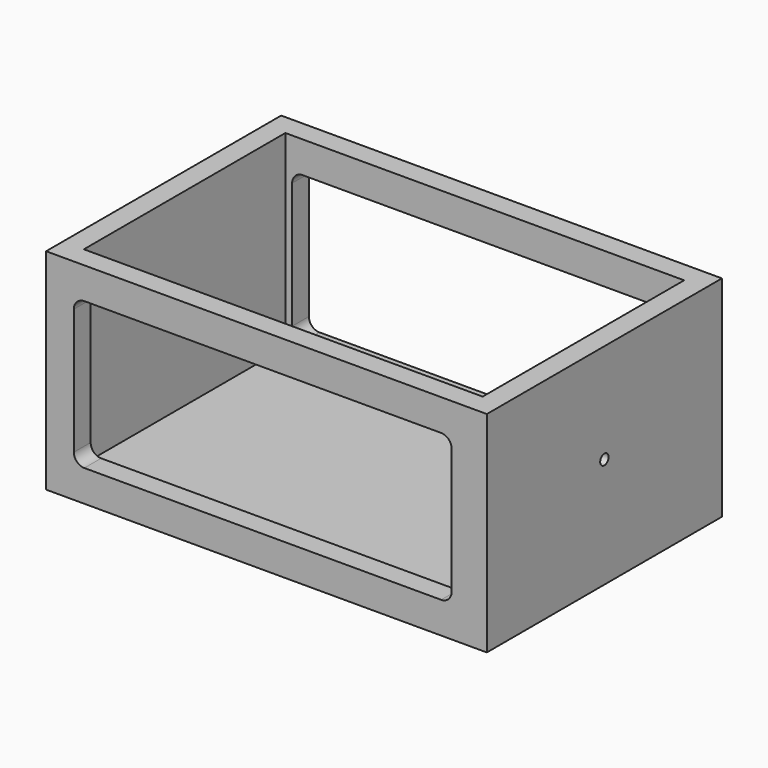
from build123d import *

# Parameters (mm, degrees)
F1_DEPTH = 10
F0_W     = 210
F0_H     = 140
F2_DEPTH = 100
F3_W     = 180
F3_H     = 70
F4_DEPTH = 202.553704
F5_R     = 2.5
F6_DEPTH = 10
F7_R     = 5


with BuildPart() as f1:
    # F0 (on Top) → F1 (new body)
    with BuildSketch(Plane.XY):
        Polygon((82.656699, -60), (95, -60), (95, 60), (82.656699, 60), (72.656699, 60), (-95, 60), (-95, -60), (72.656699, -60), align=None)
        Polygon((82.656699, -60), (95, -60), (95, 60), (82.656699, 60), (72.656699, 60), (-95, 60), (-95, -60), (72.656699, -60), align=None)
        Polygon((82.656699, -60), (95, -60), (95, 60), (82.656699, 60), (72.656699, 60), (-95, 60), (-95, -60), (72.656699, -60), align=None)
    extrude(amount=F1_DEPTH)

    # F0 (on Top) → F2 (join)
    with BuildSketch(Plane.XY):
        Rectangle(F0_W, F0_H)
        Polygon((95, 60), (95, -60), (82.656699, -60), (72.656699, -60), (-95, -60), (-95, 60), (72.656699, 60), (82.656699, 60), align=None, mode=Mode.SUBTRACT)
    extrude(amount=F2_DEPTH)

    # F3 (on face) → F4 (cut)
    with BuildSketch(Plane.XZ.offset(70)):
        with Locations((-1.771243, 50)):
            Rectangle(F3_W, F3_H)
    extrude(amount=-F4_DEPTH, mode=Mode.SUBTRACT)

    # F5 (on face) → F6 (cut)
    with BuildSketch(Plane.YZ.offset(105)):
        with Locations((0, 52.499999)):
            Circle(F5_R)
    extrude(amount=-F6_DEPTH, mode=Mode.SUBTRACT)

    # F7
    f7_edges = [f1.edges().sort_by_distance(p)[0] for p in [
        (-91.771243, -65, 15),
        (-91.771243, 65, 15),
        (-91.771243, -65, 85),
        (-91.771243, 65, 85),
        (88.228757, -65, 15),
        (88.228757, 65, 15),
        (88.228757, -65, 85),
        (88.228757, 65, 85),
    ]]
    fillet(f7_edges, radius=F7_R)


solid = f1.part
